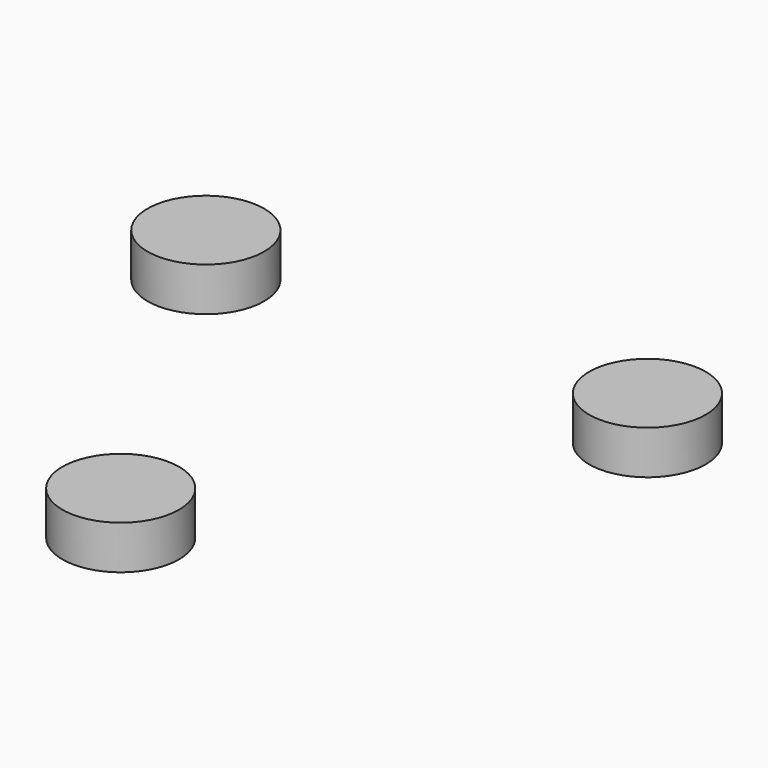
from build123d import *

# Parameters (mm, degrees)
CYLINDER022_R               = 2
CYLINDER022_DEPTH           = 1.5
CYLINDER022_PLACEMENT_ANGLE = 120
CYLINDER023_R               = 2
CYLINDER023_DEPTH           = 1.5
CYLINDER023_PLACEMENT_ANGLE = 120
CYLINDER021_R               = 2
CYLINDER021_DEPTH           = 1.5


with BuildPart() as cylinder022:
    # Cylinder022 → Cylinder022 (new body)
    with BuildSketch(Plane.XY):
        Circle(CYLINDER022_R)
    extrude(amount=CYLINDER022_DEPTH)


with BuildPart() as cylinder022_1:
    # Cylinder022 placement: moved
    add(cylinder022.part.moved(Location((7.577722, 4.375, -2.5))).rotate(Axis((7.577722, 4.375, -2.5), (0, 0, 1)), CYLINDER022_PLACEMENT_ANGLE))


with BuildPart() as cylinder023:
    # Cylinder023 → Cylinder023 (new body)
    with BuildSketch(Plane.XY):
        Circle(CYLINDER023_R)
    extrude(amount=CYLINDER023_DEPTH)


with BuildPart() as cylinder023_1:
    # Cylinder023 placement: moved
    add(cylinder023.part.moved(Location((-7.577722, 4.375, -2.5))).rotate(Axis((-7.577722, 4.375, -2.5), (0, 0, -1)), CYLINDER023_PLACEMENT_ANGLE))


with BuildPart() as fusion006:
    # Cylinder021 → Cylinder021 (new body)
    with BuildSketch(Plane(origin=(0, -8.75, -2.5), x_dir=(1, 0, 0), z_dir=(0, 0, 1))):
        Circle(CYLINDER021_R)
    extrude(amount=CYLINDER021_DEPTH)

    # Fusion006: union Cylinder022, Cylinder023
    add(cylinder022_1.part)
    add(cylinder023_1.part)


with BuildPart() as fusion006_1:
    # Fusion006 placement: moved
    add(fusion006.part.moved(Location((0, 0, 7))))


solid = fusion006_1.part
